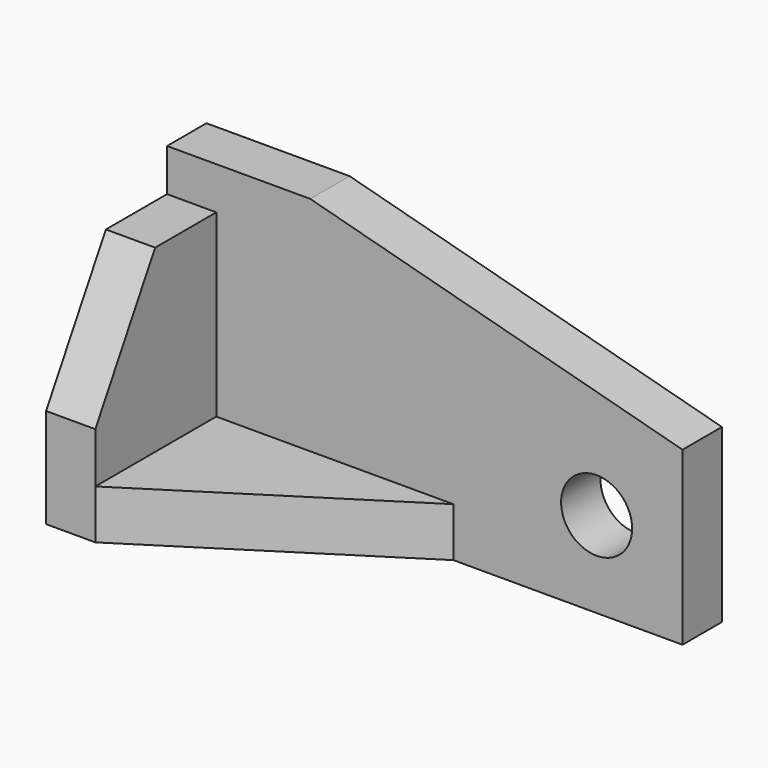
from build123d import *

# Parameters (mm, degrees)
F0_R     = 7.874
F1_DEPTH = 10.922
F2_W     = 10.922
F2_H     = 50.8
F3_DEPTH = 33.528
F5_DEPTH = 25.4
F6_W     = 33.528
F6_H     = 10.922
F7_DEPTH = 52.578
F9_DEPTH = 25.4


with BuildPart() as f1:
    # F0 (on Front) → F1 (new body)
    with BuildSketch(Plane.XZ):
        Polygon((-20.805233, 3.882795), (-52.555233, 3.882795), (-52.555233, -56.315205), (61.744767, -56.315205), (61.744767, -18.236411), align=None)
        with Locations((42.694767, -37.265205)):
            Circle(F0_R, mode=Mode.SUBTRACT)
    extrude(amount=F1_DEPTH)

    # F2 (on face) → F3 (join)
    with BuildSketch(Plane.XZ.offset(10.922)):
        with Locations((-47.094233, -30.915205)):
            Rectangle(F2_W, F2_H)
    extrude(amount=F3_DEPTH)

    # F4 (on face) → F5 (cut)
    with BuildSketch(Plane.YZ.offset(-41.633233)):
        Polygon((-44.45, -5.515205), (-44.45, -34.217205), (-27.878893, -5.515205), align=None)
    extrude(amount=-F5_DEPTH, mode=Mode.SUBTRACT)

    # F6 (on face) → F7 (join)
    with BuildSketch(Plane.YZ.offset(-41.633233)):
        with Locations((-27.686, -50.854205)):
            Rectangle(F6_W, F6_H)
    extrude(amount=F7_DEPTH)

    # F8 (on face) → F9 (cut)
    with BuildSketch(Plane.XY.offset(-45.393205)):
        Polygon((10.944767, -10.922), (-41.633233, -44.45), (10.944767, -44.45), align=None)
    extrude(amount=-F9_DEPTH, mode=Mode.SUBTRACT)


solid = f1.part
